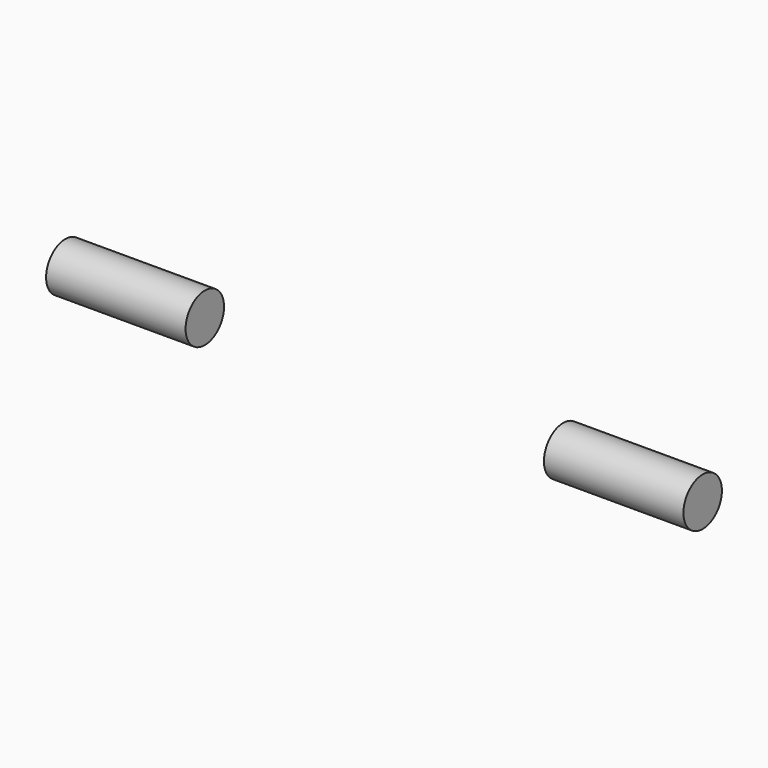
from build123d import *

# Parameters (mm, degrees)
F0_W = 25.4
F0_H = 4.379312


with BuildPart() as f1:
    # F0 (on Front) → F1 (revolve)
    with BuildSketch(Plane.XZ):
        with Locations((-49.410311, 34.755476)):
            Rectangle(F0_W, F0_H)
        with Locations((41.24141, 34.755476)):
            Rectangle(F0_W, F0_H)
    revolve(axis=Axis((-49.410311, 0, 32.56582), (1, 0, 0)))


solid = f1.part
